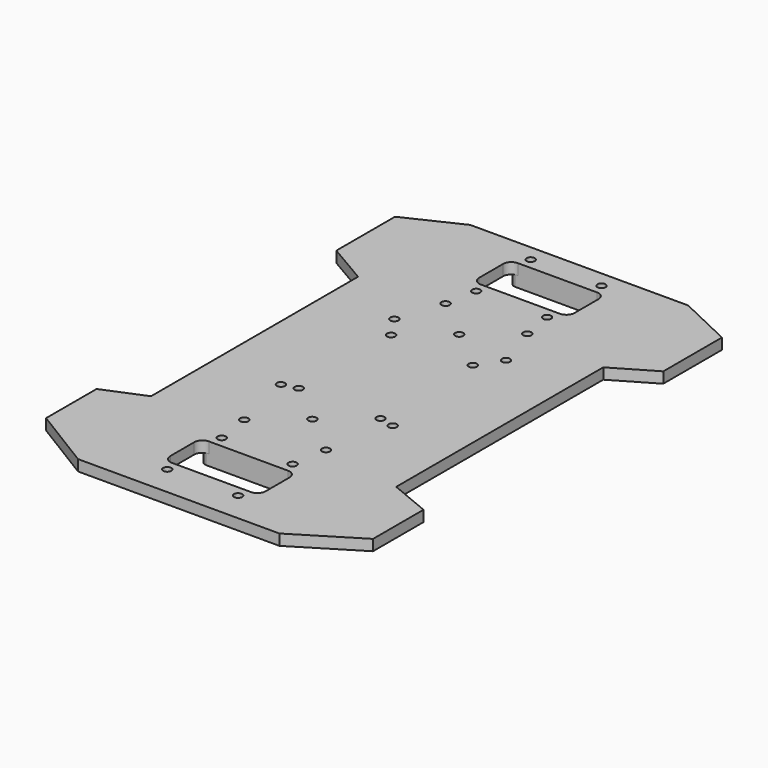
from build123d import *

# Parameters (mm, degrees)
F1_DEPTH  = 4
F3_DEPTH  = 4
F4_R      = 1.5
F5_DEPTH  = 25
F6_R      = 1.5
F7_DEPTH  = 25
F8_R      = 1.5
F9_DEPTH  = 25
F10_R     = 1.5
F11_DEPTH = 5


with BuildPart() as f1:
    # F0 (on Top) → F1 (new body)
    with BuildSketch(Plane.XY):
        Polygon((40, 107.510013), (0, 107.510013), (-40, 107.510013), (-60, 98.002009), (-60, 71.096797), (-45, 62.30734), (-45, -32.69266), (-60, -38.903203), (-60, -62.073313), (-36.951705, -76.219407), (0, -76.219407), (36.951705, -76.219407), (60, -62.073313), (60, -38.903203), (45, -32.69266), (45, 62.30734), (60, 71.096797), (60, 98.002009), align=None)
        with BuildLine():
            Line((-14.5, -44.219407), (0, -44.219407))
            Line((0, -44.219407), (14.5, -44.219407))
            ThreePointArc((14.5, -44.219407), (16.62132, -45.098087), (17.5, -47.219407))
            Line((17.5, -47.219407), (17.5, -58.219407))
            ThreePointArc((17.5, -58.219407), (16.62132, -60.340728), (14.5, -61.219407))
            Line((14.5, -61.219407), (0, -61.219407))
            Line((0, -61.219407), (-14.5, -61.219407))
            ThreePointArc((-14.5, -61.219407), (-16.62132, -60.340728), (-17.5, -58.219407))
            Line((-17.5, -58.219407), (-17.5, -47.219407))
            ThreePointArc((-17.5, -47.219407), (-16.62132, -45.098087), (-14.5, -44.219407))
        make_face(mode=Mode.SUBTRACT)
        with BuildLine():
            Line((-14.5, 97.510013), (0, 97.510013))
            Line((0, 97.510013), (14.5, 97.510013))
            ThreePointArc((14.5, 97.510013), (16.62132, 96.631334), (17.5, 94.510013))
            Line((17.5, 94.510013), (17.5, 83.510013))
            ThreePointArc((17.5, 83.510013), (16.62132, 81.388693), (14.5, 80.510013))
            Line((14.5, 80.510013), (0, 80.510013))
            Line((0, 80.510013), (-14.5, 80.510013))
            ThreePointArc((-14.5, 80.510013), (-16.62132, 81.388693), (-17.5, 83.510013))
            Line((-17.5, 83.510013), (-17.5, 94.510013))
            ThreePointArc((-17.5, 94.510013), (-16.62132, 96.631334), (-14.5, 97.510013))
        make_face(mode=Mode.SUBTRACT)
    extrude(amount=F1_DEPTH)

    # F2 (on face) → F3 (join)
    with BuildSketch(Plane(origin=(0, 0, 0), x_dir=(1, 0, 0), z_dir=(0, 0, -1))):
        with BuildLine():
            Line((15.5, 68.219407), (-15.5, 68.219407))
            ThreePointArc((-15.5, 68.219407), (-16.914214, 67.633621), (-17.5, 66.219407))
            Line((-17.5, 66.219407), (-17.5, 63.219407))
            ThreePointArc((-17.5, 63.219407), (-16.914214, 61.805194), (-15.5, 61.219407))
            Line((-15.5, 61.219407), (15.5, 61.219407))
            ThreePointArc((15.5, 61.219407), (16.914214, 61.805194), (17.5, 63.219407))
            Line((17.5, 63.219407), (17.5, 66.219407))
            ThreePointArc((17.5, 66.219407), (16.914214, 67.633621), (15.5, 68.219407))
        make_face()
        with BuildLine():
            Line((15.5, 44.219407), (-15.5, 44.219407))
            ThreePointArc((-15.5, 44.219407), (-16.914214, 43.633621), (-17.5, 42.219407))
            Line((-17.5, 42.219407), (-17.5, 39.219407))
            ThreePointArc((-17.5, 39.219407), (-16.914214, 37.805194), (-15.5, 37.219407))
            Line((-15.5, 37.219407), (15.5, 37.219407))
            ThreePointArc((15.5, 37.219407), (16.914214, 37.805194), (17.5, 39.219407))
            Line((17.5, 39.219407), (17.5, 42.219407))
            ThreePointArc((17.5, 42.219407), (16.914214, 43.633621), (15.5, 44.219407))
        make_face()
        with BuildLine():
            Line((15.5, -73.510013), (-15.5, -73.510013))
            ThreePointArc((-15.5, -73.510013), (-16.914214, -74.0958), (-17.5, -75.510013))
            Line((-17.5, -75.510013), (-17.5, -78.510013))
            ThreePointArc((-17.5, -78.510013), (-16.914214, -79.924227), (-15.5, -80.510013))
            Line((-15.5, -80.510013), (15.5, -80.510013))
            ThreePointArc((15.5, -80.510013), (16.914214, -79.924227), (17.5, -78.510013))
            Line((17.5, -78.510013), (17.5, -75.510013))
            ThreePointArc((17.5, -75.510013), (16.914214, -74.0958), (15.5, -73.510013))
        make_face()
        with BuildLine():
            Line((15.5, -97.510013), (-15.5, -97.510013))
            ThreePointArc((-15.5, -97.510013), (-16.914214, -98.0958), (-17.5, -99.510013))
            Line((-17.5, -99.510013), (-17.5, -102.510013))
            ThreePointArc((-17.5, -102.510013), (-16.914214, -103.924227), (-15.5, -104.510013))
            Line((-15.5, -104.510013), (15.5, -104.510013))
            ThreePointArc((15.5, -104.510013), (16.914214, -103.924227), (17.5, -102.510013))
            Line((17.5, -102.510013), (17.5, -99.510013))
            ThreePointArc((17.5, -99.510013), (16.914214, -98.0958), (15.5, -97.510013))
        make_face()
    extrude(amount=F3_DEPTH)

    # F4 (on face) → F5 (cut)
    with BuildSketch(Plane.XY.offset(4)):
        with Locations((-20.5, 48.30734)):
            Circle(F4_R)
        with Locations((-20.5, -3.69266)):
            Circle(F4_R)
        with Locations((20.5, 48.30734)):
            Circle(F4_R)
        with Locations((20.5, -3.69266)):
            Circle(F4_R)
    extrude(amount=-F5_DEPTH, mode=Mode.SUBTRACT)

    # F6 (on face) → F7 (cut)
    with BuildSketch(Plane.XY.offset(4)):
        with Locations((-13, -40.219407)):
            Circle(F6_R)
        with Locations((-13, -65.219407)):
            Circle(F6_R)
        with Locations((13, -40.219407)):
            Circle(F6_R)
        with Locations((13, -65.219407)):
            Circle(F6_R)
        with Locations((-13, 101.510013)):
            Circle(F6_R)
        with Locations((-13, 76.510013)):
            Circle(F6_R)
        with Locations((13, 101.510013)):
            Circle(F6_R)
        with Locations((13, 76.510013)):
            Circle(F6_R)
    extrude(amount=-F7_DEPTH, mode=Mode.SUBTRACT)

    # F8 (on face) → F9 (cut)
    with BuildSketch(Plane.XY.offset(4)):
        with Locations((-15, -2.383515)):
            Circle(F8_R)
        with Locations((-15, -27.383515)):
            Circle(F8_R)
        with Locations((15, -2.383515)):
            Circle(F8_R)
        with Locations((15, -27.383515)):
            Circle(F8_R)
        with Locations((-15, 64.966045)):
            Circle(F8_R)
        with Locations((-15, 39.966045)):
            Circle(F8_R)
        with Locations((15, 64.966045)):
            Circle(F8_R)
        with Locations((15, 39.966045)):
            Circle(F8_R)
        with Locations((0, 52.466045)):
            Circle(F8_R)
        with Locations((0, -14.883515)):
            Circle(F8_R)
    extrude(amount=-F9_DEPTH, mode=Mode.SUBTRACT)

    # F10 (on face) → F11 (join)
    with BuildSketch(Plane(origin=(0, 0, 0), x_dir=(1, 0, 0), z_dir=(0, 0, -1))):
        with BuildLine():
            Line((21.353659, -44.913041), (2.073171, -40.064042))
            ThreePointArc((2.073171, -40.064042), (0, -39.80734), (-2.073171, -40.064042))
            Line((-2.073171, -40.064042), (-21.353659, -44.913041))
            ThreePointArc((-21.353659, -44.913041), (-18.348001, -45.547104), (-17, -48.30734))
            ThreePointArc((-17, -48.30734), (-18.348001, -51.067576), (-21.353659, -51.70164))
            Line((-21.353659, -51.70164), (-2.073171, -56.550638))
            ThreePointArc((-2.073171, -56.550638), (0, -56.80734), (2.073171, -56.550638))
            Line((2.073171, -56.550638), (21.353659, -51.70164))
            ThreePointArc((21.353659, -51.70164), (17, -48.30734), (21.353659, -44.913041))
        make_face()
        with BuildLine():
            ThreePointArc((24, -48.30734), (23.260236, -46.155342), (21.353659, -44.913041))
            ThreePointArc((21.353659, -44.913041), (17, -48.30734), (21.353659, -51.70164))
            ThreePointArc((21.353659, -51.70164), (23.260236, -50.459339), (24, -48.30734))
        make_face()
        with Locations((20.5, -48.30734)):
            Circle(F10_R, mode=Mode.SUBTRACT)
        with BuildLine():
            ThreePointArc((-17, -48.30734), (-18.348001, -45.547104), (-21.353659, -44.913041))
            ThreePointArc((-21.353659, -44.913041), (-24, -48.30734), (-21.353659, -51.70164))
            ThreePointArc((-21.353659, -51.70164), (-18.348001, -51.067576), (-17, -48.30734))
        make_face()
        with Locations((-20.5, -48.30734)):
            Circle(F10_R, mode=Mode.SUBTRACT)
    extrude(amount=F11_DEPTH)


solid = f1.part
